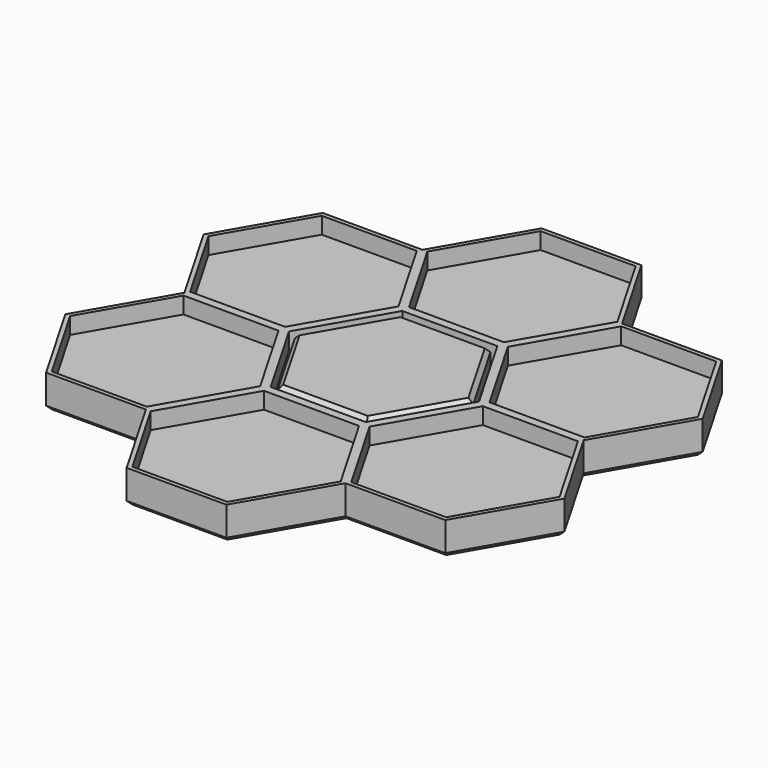
from build123d import *

# Parameters (mm, degrees)
F1_DEPTH = 4
F2_DEPTH = 2
F3_COUNT = 3
F4_COUNT = 3
F5_COUNT = 3
F7_SIZE  = 0.5
F9_DEPTH = 4
F10_SIZE = 0.5


with BuildPart() as f1:
    # F0 (on Top) → F1 (new body)
    with BuildSketch(Plane.XY):
        Polygon((-6, -10.3923048454), (6, -10.3923048454), (12, 0), (6, 10.3923048454), (-6, 10.3923048454), (-12, 0), align=None)
        Polygon((5.7113248654, -9.8923048454), (-5.7113248654, -9.8923048454), (-11.4226497308, 0), (-5.7113248654, 9.8923048454), (5.7113248654, 9.8923048454), (11.4226497308, 0), align=None, mode=Mode.SUBTRACT)
    extrude(amount=F1_DEPTH)

    # F0 (on Top) → F2 (join)
    with BuildSketch(Plane.XY):
        Polygon((-11.4226497308, 0), (-5.7113248654, -9.8923048454), (5.7113248654, -9.8923048454), (11.4226497308, 0), (5.7113248654, 9.8923048454), (-5.7113248654, 9.8923048454), align=None)
    extrude(amount=F2_DEPTH)


with BuildPart() as f3_1:
    # F3: instance of F1
    add(f1.part.rotate(Axis((6, -10.3923048454, 2), (0, 0, -1)), 1 * 360 / F3_COUNT))


with BuildPart() as f3_2:
    # F3: instance of F1
    add(f1.part.rotate(Axis((6, -10.3923048454, 2), (0, 0, -1)), 2 * 360 / F3_COUNT))


with BuildPart() as f4_1:
    # F4: instance of F1
    add(f1.part.rotate(Axis((6, 10.3923048454, 2), (0, 0, -1)), 1 * 360 / F4_COUNT))


with BuildPart() as f4_2:
    # F4: instance of F1
    add(f1.part.rotate(Axis((6, 10.3923048454, 2), (0, 0, -1)), 2 * 360 / F4_COUNT))


with BuildPart() as f5_1:
    # F5: instance of F1
    add(f1.part.rotate(Axis((-12, 0, 2), (0, 0, -1)), 1 * 360 / F5_COUNT))


with BuildPart() as f5_2:
    # F5: instance of F1
    add(f1.part.rotate(Axis((-12, 0, 2), (0, 0, -1)), 2 * 360 / F5_COUNT))


with BuildPart() as f1_1:
    add(f1.part)

    # F6: union F3_1, F4_1, F3_2, F5_1, F4_2, F5_2
    add(f3_1.part)
    add(f4_1.part)
    add(f3_2.part)
    add(f5_1.part)
    add(f4_2.part)
    add(f5_2.part)

    # F7
    f7_edges = [f1_1.edges().sort_by_distance(p)[0] for p in [
        (-27, 15.588457, 0),
        (-27, 5.196152, 0),
        (-27, -5.196152, 0),
        (-27, -15.588457, 0),
        (-18, -20.78461, 0),
        (-9, -25.980762, 0),
        (0, -31.176915, 0),
        (9, -25.980762, 0),
        (18, -20.78461, 0),
        (27, -15.588457, 0),
        (27, -5.196152, 0),
        (27, 5.196152, 0),
        (27, 15.588457, 0),
        (18, 20.78461, 0),
        (9, 25.980762, 0),
        (0, 31.176915, 0),
        (-9, 25.980762, 0),
        (-18, 20.78461, 0),
    ]]
    chamfer(f7_edges, length=F7_SIZE)


with BuildPart() as f9:
    # F8 (on Top) → F9 (new body)
    with BuildSketch(Plane.XY):
        Polygon((-10.7298294078, 0), (-5.3649147039, -9.2923048454), (5.3649147039, -9.2923048454), (10.7298294078, 0), (5.3649147039, 9.2923048454), (-5.3649147039, 9.2923048454), align=None)
    extrude(amount=F9_DEPTH)

    # F10
    f10_edges = [f9.edges().sort_by_distance(p)[0] for p in [
        (-8.047372, -4.646152, 4),
        (0, -9.292305, 4),
        (8.047372, -4.646152, 4),
        (8.047372, 4.646152, 4),
        (0, 9.292305, 4),
        (-8.047372, 4.646152, 4),
        (-8.047372, -4.646152, 0),
        (0, -9.292305, 0),
        (8.047372, -4.646152, 0),
        (8.047372, 4.646152, 0),
        (0, 9.292305, 0),
        (-8.047372, 4.646152, 0),
    ]]
    chamfer(f10_edges, length=F10_SIZE)


solid = Compound([f1_1.part, f9.part])
